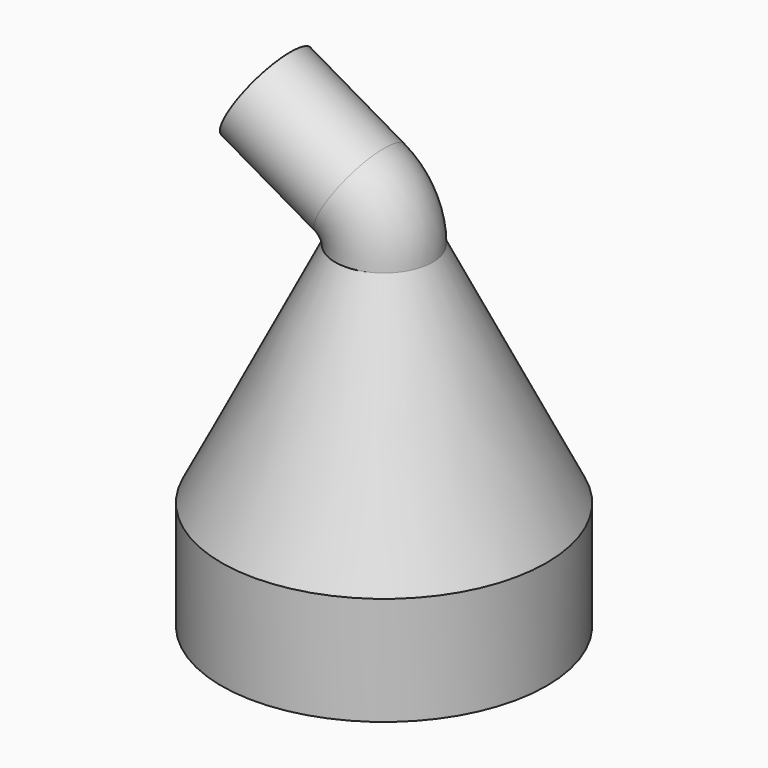
from build123d import *

# Parameters (mm, degrees)
F0_R        = 7.5
F0_R_2      = 7
F1_DEPTH    = 5
F4_FACE_R   = 2.25
F4_FACE_R_2 = 1.75


with BuildPart() as f1:
    # F0 (on Top) → F1 (new body)
    with BuildSketch(Plane.XY):
        Circle(F0_R)
        Circle(F0_R_2, mode=Mode.SUBTRACT)
    extrude(amount=F1_DEPTH)

    # F3 (on Front) → F4 (revolve)
    with BuildSketch(Plane.XZ):
        Polygon((-1.75, 15.5), (-2.25, 15.5), (-7.5, 5), (-7, 5), align=None)
    revolve(axis=Axis((0, 0, 5), (0, 0, 1)))

    # F6: sweep along a path in F5
    with BuildLine(Plane.XZ) as f6_path:
        Line((-5.4551270189, 19.9485571585), (-1.125, 17.4485571585))
        ThreePointArc((-1.125, 17.4485571585), (-0.3014428415, 16.625), (0, 15.5))
    # F4_face (on face) → F6 (sweep)
    with BuildSketch(Plane.XY.offset(15.5)):
        Circle(F4_FACE_R)
        Circle(F4_FACE_R_2, mode=Mode.SUBTRACT)
    sweep(path=f6_path.line)


solid = f1.part
